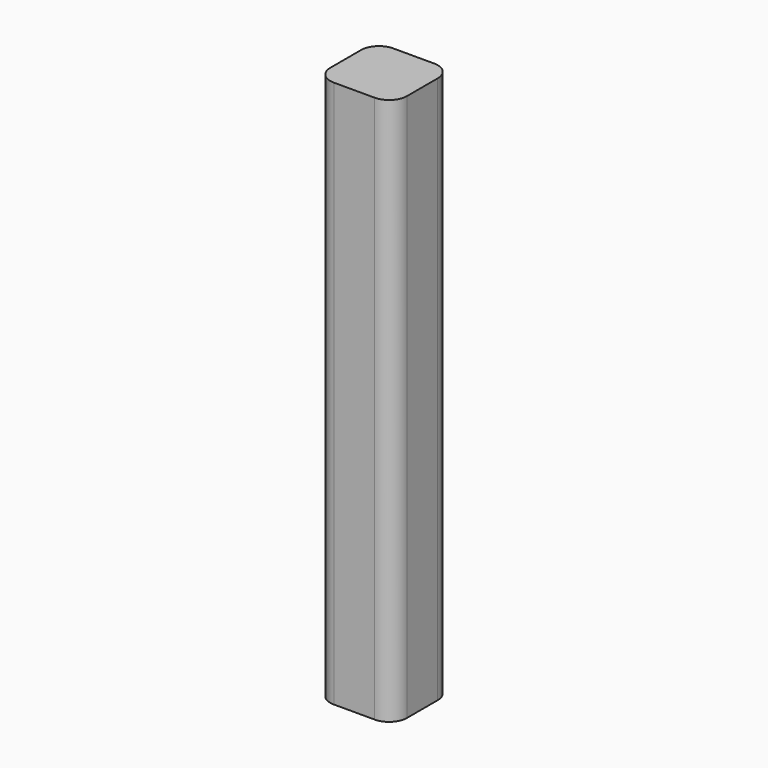
from build123d import *

# Parameters (mm, degrees)
F0_W     = 6.7386771552
F0_H     = 145.2977508307
F1_DEPTH = 9.652
F2_DEPTH = 3.302
F3_DEPTH = 48.768
F4_DEPTH = 17.526
F5_DEPTH = 16.256
F6_R     = 6.35
F7_R     = 6.35
F8_R     = 6.35


with BuildPart() as f1:
    # F0 (on Right) → F1 (new body)
    with BuildSketch(Plane.YZ):
        Rectangle(F0_W, F0_H)
    extrude(amount=F1_DEPTH)

    # F2 (add): a face of the model
    f2_faces = [f1.faces().sort_by_distance(p)[0] for p in [
        (4.826, -3.3693385776, 0),
    ]]
    extrude(f2_faces, amount=F2_DEPTH)

    # F3 (add): a face of the model
    f3_faces = [f1.faces().sort_by_distance(p)[0] for p in [
        (4.826, -1.651, -72.6488754153),
    ]]
    extrude(f3_faces, amount=F3_DEPTH)

    # F4 (add): a face of the model
    f4_faces = [f1.faces().sort_by_distance(p)[0] for p in [
        (9.652, -1.651, -24.384),
    ]]
    extrude(f4_faces, amount=F4_DEPTH)

    # F5 (add): a face of the model
    f5_faces = [f1.faces().sort_by_distance(p)[0] for p in [
        (13.589, -6.6713385776, -24.384),
    ]]
    extrude(f5_faces, amount=F5_DEPTH)

    # F6
    f6_edges = [f1.edges().sort_by_distance(p)[0] for p in [
        (27.178, -22.927339, -24.384),
    ]]
    fillet(f6_edges, radius=F6_R)

    # F7
    f7_edges = [f1.edges().sort_by_distance(p)[0] for p in [
        (27.178, 3.369339, -24.384),
    ]]
    fillet(f7_edges, radius=F7_R)

    # F8
    f8_edges = [f1.edges().sort_by_distance(p)[0] for p in [
        (0, -22.927339, -24.384),
        (0, 3.369339, -24.384),
    ]]
    fillet(f8_edges, radius=F8_R)


solid = f1.part
